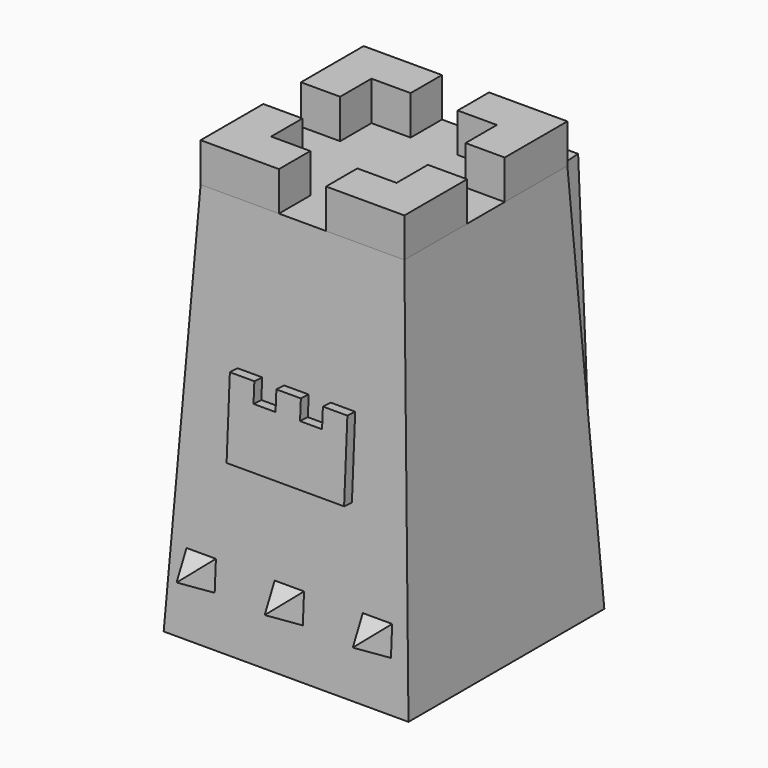
from build123d import *

# Parameters (mm, degrees)
F0_W     = 63.5
F0_H     = 63.5
F1_DEPTH = 101.6
F1_TAPER = 3
F3_DEPTH = 10.16
F4_W     = 7.62
F4_H     = 7.62
F5_DEPTH = 7.62
F5_TAPER = 26
F7_DEPTH = 2.54
F8_W     = 12.7
F8_H     = 12.7
F9_DEPTH = 5.08


with BuildPart() as f1:
    # F0 (on Top) → F1 (new body)
    with BuildSketch(Plane.XY):
        with Locations((3.6575980484, -9.4182148212)):
            Rectangle(F0_W, F0_H)
    extrude(amount=F1_DEPTH, taper=F1_TAPER)

    # F2 (on face) → F3 (join)
    with BuildSketch(Plane.XY.offset(101.6)):
        Polygon((-12.6077715764, -15.5235844461), (-22.7677715764, -15.5235844461), (-22.7677715764, -35.8435844461), (-12.6077715764, -35.8435844461), (-2.4477715764, -35.8435844461), (-2.4477715764, -25.6835844461), (-12.6077715764, -25.6835844461), align=None)
        Polygon((19.9229676733, -35.8435844461), (30.0829676733, -35.8435844461), (30.0829676733, -15.5235844461), (19.9229676733, -15.5235844461), (19.9229676733, -25.6835844461), (9.7629676733, -25.6835844461), (9.7629676733, -35.8435844461), align=None)
        Polygon((-12.6077715764, 17.0071548036), (-22.7677715764, 17.0071548036), (-22.7677715764, -3.3128451964), (-12.6077715764, -3.3128451964), (-12.6077715764, 6.8471548036), (-2.4477715764, 6.8471548036), (-2.4477715764, 17.0071548036), align=None)
        Polygon((30.0829676733, -3.3128451964), (30.0829676733, 17.0071548036), (19.9229676733, 17.0071548036), (9.7629676733, 17.0071548036), (9.7629676733, 6.8471548036), (19.9229676733, 6.8471548036), (19.9229676733, -3.3128451964), align=None)
    extrude(amount=F3_DEPTH)

    # F4 (on face) → F5 (join)
    with BuildSketch(Plane(origin=(0, -41.0554529271, 2.1516251154), x_dir=(1, 0, 0), z_dir=(0, -0.9986295348, 0.0523359562))):
        with Locations((-19.2024019516, 14.3554221105)):
            Rectangle(F4_W, F4_H)
        with Locations((3.6575980484, 14.3554221105)):
            Rectangle(F4_W, F4_H)
        with Locations((26.5175980484, 14.3554221105)):
            Rectangle(F4_W, F4_H)
    extrude(amount=F5_DEPTH, taper=F5_TAPER)

    # F6 (on face) → F7 (join)
    with BuildSketch(Plane(origin=(0, -41.0554529271, 2.1516251154), x_dir=(1, 0, 0), z_dir=(0, -0.9986295348, 0.0523359562))):
        Polygon((-11.5824019516, 56.964216193), (-11.5824019516, 41.724216193), (18.8975980484, 41.724216193), (18.8975980484, 56.964216193), (18.8975980484, 62.044216193), (12.5475980484, 62.044216193), (12.5475980484, 56.964216193), (6.8325980484, 56.964216193), (6.8325980484, 62.044216193), (0.4825980484, 62.044216193), (0.4825980484, 56.964216193), (-5.2324019516, 56.964216193), (-5.2324019516, 62.044216193), (-11.5824019516, 62.044216193), align=None)
    extrude(amount=F7_DEPTH)

    # F8 (on face) → F9 (join)
    with BuildSketch(Plane(origin=(0, 22.2706172509, 1.1671535934), x_dir=(-1, 0, 0), z_dir=(0, 0.9986295348, 0.0523359562))):
        Polygon((-28.8129676733, 100.5706750214), (-28.8129676733, -1.1687553319), (-25.6379676733, -1.1687553319), (-25.6379676733, 15.3412446681), (-12.9379676733, 15.3412446681), (-12.9379676733, -1.1687553319), (-9.7629676733, -1.1687553319), (-9.7629676733, 100.5706750214), (-12.9379676733, 100.5706750214), (-12.9379676733, 91.5412446681), (-25.6379676733, 91.5412446681), (-25.6379676733, 100.5706750214), align=None)
        with Locations((-19.2879676733, 26.7712446681)):
            Rectangle(F8_W, F8_H, mode=Mode.SUBTRACT)
        with Locations((-19.2879676733, 44.5512446681)):
            Rectangle(F8_W, F8_H, mode=Mode.SUBTRACT)
        with Locations((-19.2879676733, 80.1112446681)):
            Rectangle(F8_W, F8_H, mode=Mode.SUBTRACT)
        with Locations((-19.2879676733, 62.3312446681)):
            Rectangle(F8_W, F8_H, mode=Mode.SUBTRACT)
    extrude(amount=F9_DEPTH)


solid = f1.part
